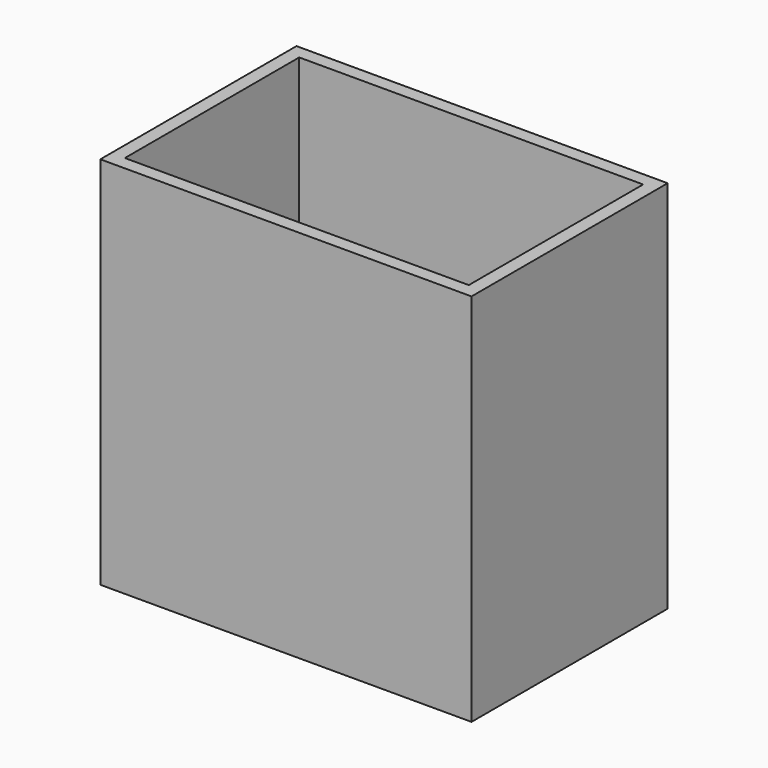
from build123d import *

# Parameters (mm, degrees)
F0_W     = 54.5
F0_H     = 36
F0_W_2   = 50.5
F0_H_2   = 32
F1_DEPTH = 2
F2_DEPTH = 53


with BuildPart() as f1:
    # F0 (on Top) → F1 (new body)
    with BuildSketch(Plane.XY):
        Rectangle(F0_W, F0_H)
        Rectangle(F0_W_2, F0_H_2, mode=Mode.SUBTRACT)
        Rectangle(F0_W_2, F0_H_2)
    extrude(amount=-F1_DEPTH)

    # F0 (on Top) → F2 (join)
    with BuildSketch(Plane.XY):
        Rectangle(F0_W, F0_H)
        Rectangle(F0_W_2, F0_H_2, mode=Mode.SUBTRACT)
    extrude(amount=F2_DEPTH)


solid = f1.part
